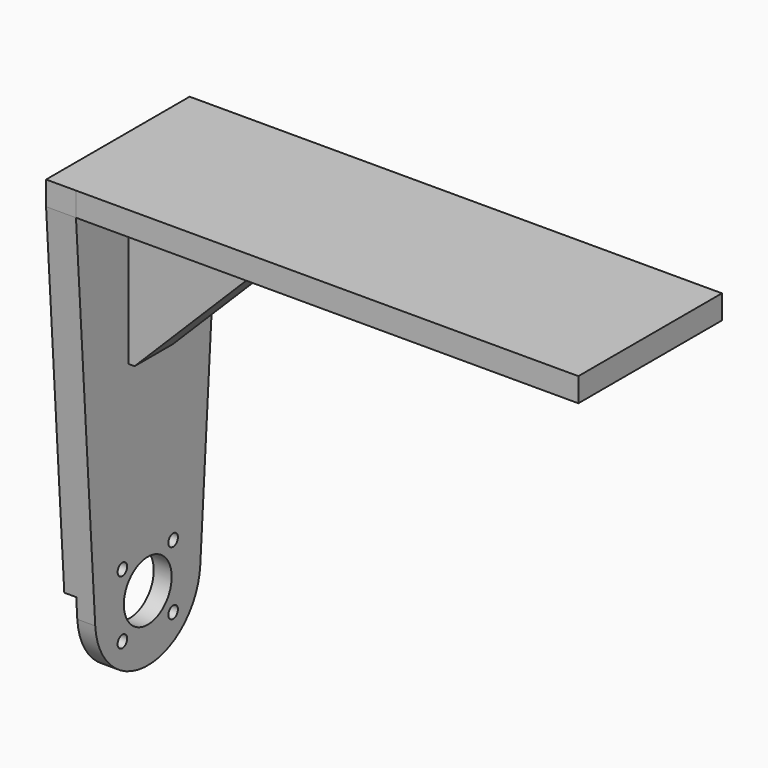
from build123d import *

# Parameters (mm, degrees)
CYLINDER067_R             = 11.5
CYLINDER067_DEPTH         = 23
CYLINDER066_R             = 5
CYLINDER066_DEPTH         = 23
CYLINDER068_R             = 1
CYLINDER068_DEPTH         = 31
CYLINDER071_R             = 1
CYLINDER071_DEPTH         = 31
CYLINDER070_R             = 1
CYLINDER070_DEPTH         = 31
CYLINDER069_R             = 1
CYLINDER069_DEPTH         = 31
FUSION058_ROLL_ANGLE      = -90
FUSION059_PITCH_ANGLE     = -45
FUSION059_PLACEMENT_ANGLE = 90
BOX068_W                  = 85
BOX068_H                  = 30
BOX068_DEPTH              = 4
PAD006_DEPTH              = 5
BOX069_W                  = 27
BOX069_H                  = 8
BOX069_DEPTH              = 30
CHAMFER013_SIZE           = 25


with BuildPart() as cylinder179:
    # Cylinder067 → Cylinder067 (new body)
    with BuildSketch(Plane(origin=(-3, 71, 73), x_dir=(0, 0, 1), z_dir=(0, -1, 0))):
        Circle(CYLINDER067_R)
    extrude(amount=CYLINDER067_DEPTH)


with BuildPart() as fusion057:
    # Cylinder066 → Cylinder066 (new body)
    with BuildSketch(Plane(origin=(-3, 66, 73), x_dir=(0, 0, 1), z_dir=(0, -1, 0))):
        Circle(CYLINDER066_R)
    extrude(amount=CYLINDER066_DEPTH)

    # Fusion057: union Cylinder179
    add(cylinder179.part)


with BuildPart() as cylinder180:
    # Cylinder068 → Cylinder068 (new body)
    with BuildSketch(Plane(origin=(-7.5, -11, 132), x_dir=(1, 0, 0), z_dir=(0, 0, 1))):
        Circle(CYLINDER068_R)
    extrude(amount=CYLINDER068_DEPTH)


with BuildPart() as cylinder183:
    # Cylinder071 → Cylinder071 (new body)
    with BuildSketch(Plane(origin=(0, -3.5, 132), x_dir=(1, 0, 0), z_dir=(0, 0, 1))):
        Circle(CYLINDER071_R)
    extrude(amount=CYLINDER071_DEPTH)


with BuildPart() as cylinder182:
    # Cylinder070 → Cylinder070 (new body)
    with BuildSketch(Plane(origin=(7.5, -11, 132), x_dir=(1, 0, 0), z_dir=(0, 0, 1))):
        Circle(CYLINDER070_R)
    extrude(amount=CYLINDER070_DEPTH)


with BuildPart() as fusion059:
    # Cylinder069 → Cylinder069 (new body)
    with BuildSketch(Plane(origin=(0, -18.5, 132), x_dir=(1, 0, 0), z_dir=(0, 0, 1))):
        Circle(CYLINDER069_R)
    extrude(amount=CYLINDER069_DEPTH)

    # Fusion058: union Cylinder180, Cylinder183, Cylinder182
    add(cylinder180.part)
    add(cylinder183.part)
    add(cylinder182.part)


with BuildPart() as fusion059_1:
    # Fusion058 roll: moved
    add(fusion059.part.rotate(Axis((0, 0, 0), (1, 0, 0)), FUSION058_ROLL_ANGLE))


with BuildPart() as fusion059_2:
    # Fusion058 placement: moved
    add(fusion059_1.part.moved(Location((-3, -97.5, 62))))

    # Fusion059: union Fusion057
    add(fusion057.part)


with BuildPart() as fusion059_3:
    # Fusion059 pitch: moved
    add(fusion059_2.part.rotate(Axis((0, 0, 0), (0, 1, 0)), FUSION059_PITCH_ANGLE))


with BuildPart() as fusion059_4:
    # Fusion059 placement: moved
    add(fusion059_3.part.moved(Location((-30, 53.740115, -51.497475))).rotate(Axis((-30, 53.740115, -51.497475), (0, 0, 1)), FUSION059_PLACEMENT_ANGLE))


with BuildPart() as cube071:
    # Box068 → Box068 (new body)
    with BuildSketch(Plane(origin=(-76, -15, 59), x_dir=(1, 0, 0), z_dir=(0, 0, 1))):
        with Locations((42.5, 15)):
            Rectangle(BOX068_W, BOX068_H)
    extrude(amount=BOX068_DEPTH)


with BuildPart() as fusion061:
    # Sketch008 → Pad006 (new body)
    with BuildSketch(Plane(origin=(-80, 0, 0), x_dir=(0, -1, 0), z_dir=(-1, 0, 0))):
        with BuildLine():
            ThreePointArc((-10.976703, -2.715538), (0, -13), (10.976703, -2.715538))
            Line((15.000001, 59), (10.976703, -2.715538))
            Line((15.000001, 63), (15.000001, 59))
            Line((-14.999999, 63), (15.000001, 63))
            Line((-14.999999, 63), (-14.999999, 59))
            Line((-14.999999, 59), (-10.976703, -2.715538))
        make_face()
    extrude(amount=-PAD006_DEPTH)

    # Fusion061: union Cube071
    add(cube071.part)


with BuildPart() as cut095:
    # Box069 → Box069 (new body)
    with BuildSketch(Plane(origin=(-76, -4, 33), x_dir=(1, 0, 0), z_dir=(0, 0, 1))):
        with Locations((13.5, 4)):
            Rectangle(BOX069_W, BOX069_H)
    extrude(amount=BOX069_DEPTH)

    # Chamfer013
    chamfer013_edges = [cut095.edges().sort_by_distance(p)[0] for p in [
        (-49, 0, 33),
    ]]
    chamfer(chamfer013_edges, length=CHAMFER013_SIZE)

    # Fusion062: union Fusion061
    add(fusion061.part)

    # Cut095: cut Fusion059
    add(fusion059_4.part, mode=Mode.SUBTRACT)


solid = cut095.part
